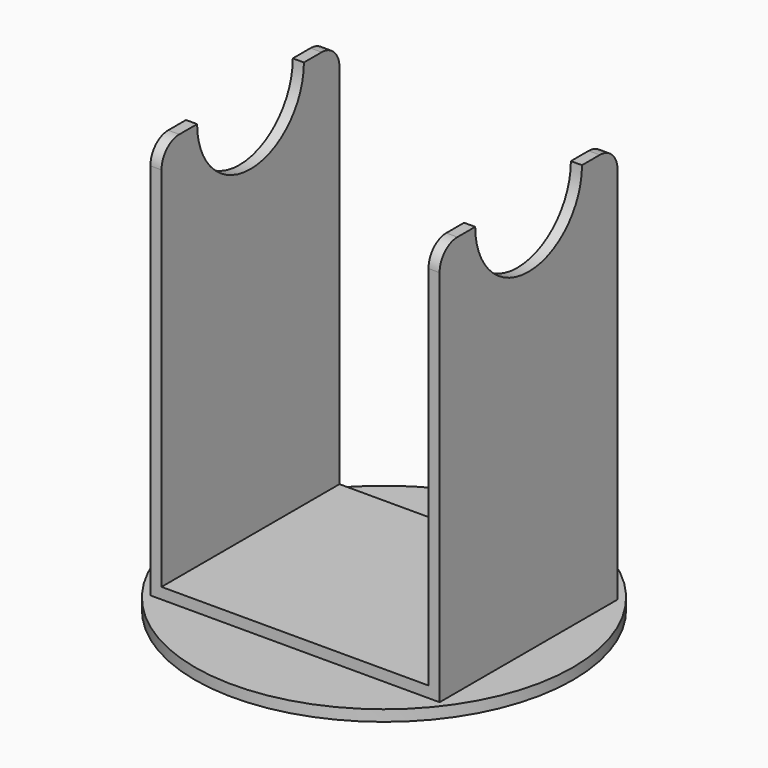
from build123d import *

# Parameters (mm, degrees)
F1_DEPTH = 254
F2_R     = 215.9
F3_DEPTH = 12.7
F5_DEPTH = 381.001
F6_R     = 25.4


with BuildPart() as f1:
    # F0 (on Front) → F1 (new body)
    with BuildSketch(Plane.XZ):
        Polygon((-152.4, 12.7), (-152.4, 457.2), (-165.1, 457.2), (-165.1, 0), (165.1, 0), (165.1, 457.2), (152.4, 457.2), (152.4, 12.7), align=None)
    extrude(amount=F1_DEPTH)

    # F2 (on face) → F3 (join)
    with BuildSketch(Plane(origin=(0, 0, 0), x_dir=(1, 0, 0), z_dir=(0, 0, -1))):
        with Locations((0, 127)):
            Circle(F2_R)
    extrude(amount=F3_DEPTH)

    # F4 (on face) → F5 (cut, through all)
    with BuildSketch(Plane.YZ.offset(165.1)):
        with BuildLine():
            Line((-50.8, 457.2), (-203.2, 457.2))
            ThreePointArc((-203.2, 457.2), (-127, 381), (-50.8, 457.2))
        make_face()
    extrude(amount=-F5_DEPTH, mode=Mode.SUBTRACT)

    # F6
    f6_edges = [f1.edges().sort_by_distance(p)[0] for p in [
        (158.75, -254, 457.2),
        (158.75, 0, 457.2),
        (-158.75, 0, 457.2),
        (-158.75, -254, 457.2),
    ]]
    fillet(f6_edges, radius=F6_R)


solid = f1.part
